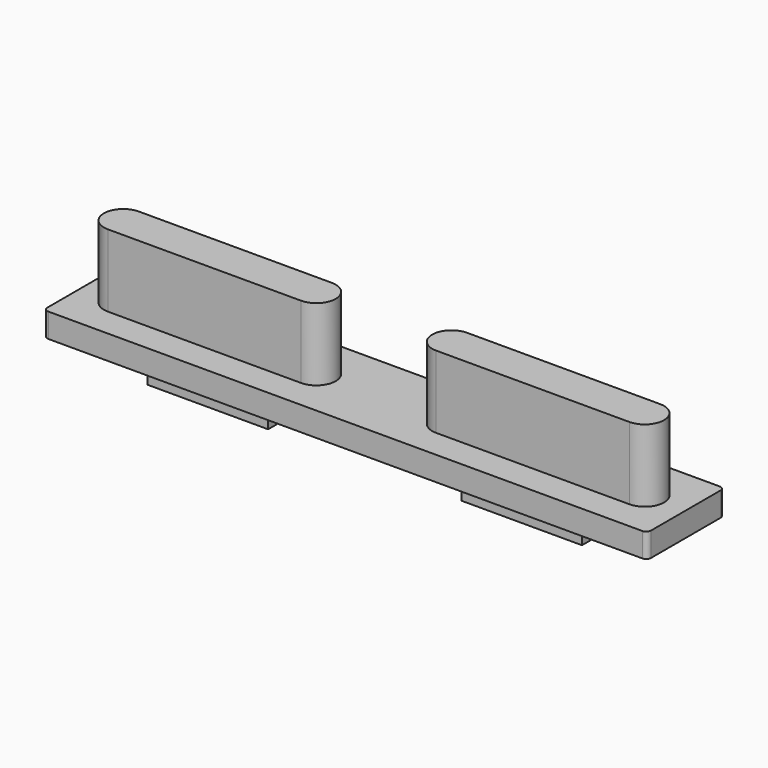
from build123d import *

# Parameters (mm, degrees)
F0_W     = 25
F0_H     = 4
F1_DEPTH = 1
F3_DEPTH = 3
F4_R     = 0.2
F5_W     = 5
F5_H     = 2
F6_DEPTH = 1


with BuildPart() as f1:
    # F0 (on Top) → F1 (new body)
    with BuildSketch(Plane.XY):
        with Locations((10.130869, -1.226871)):
            Rectangle(F0_W, F0_H)
    extrude(amount=F1_DEPTH)

    # F2 (on face) → F3 (join)
    with BuildSketch(Plane.XY.offset(1)):
        with BuildLine():
            ThreePointArc((-0.669131, -0.426871), (-1.469131, -1.226871), (-0.669131, -2.026871))
            Line((-0.669131, -2.026871), (7.330869, -2.026871))
            ThreePointArc((7.330869, -2.026871), (8.130869, -1.226871), (7.330869, -0.426871))
            Line((7.330869, -0.426871), (-0.669131, -0.426871))
        make_face()
        with BuildLine():
            ThreePointArc((12.930869, -0.426871), (12.130869, -1.226871), (12.930869, -2.026871))
            Line((12.930869, -2.026871), (20.930869, -2.026871))
            ThreePointArc((20.930869, -2.026871), (21.730869, -1.226871), (20.930869, -0.426871))
            Line((20.930869, -0.426871), (12.930869, -0.426871))
        make_face()
    extrude(amount=F3_DEPTH)

    # F4
    f4_edges = [f1.edges().sort_by_distance(p)[0] for p in [
        (22.630869, 0.773129, 0.5),
        (22.630869, -3.226871, 0.5),
        (-2.369131, -3.226871, 0.5),
        (-2.369131, 0.773129, 0.5),
    ]]
    fillet(f4_edges, radius=F4_R)

    # F5 (on face) → F6 (join)
    with BuildSketch(Plane(origin=(0, 0, 0), x_dir=(1, 0, 0), z_dir=(0, 0, -1))):
        with Locations((3.630869, 1.226871)):
            Rectangle(F5_W, F5_H)
        with Locations((16.630869, 1.226871)):
            Rectangle(F5_W, F5_H)
    extrude(amount=F6_DEPTH)


solid = f1.part
